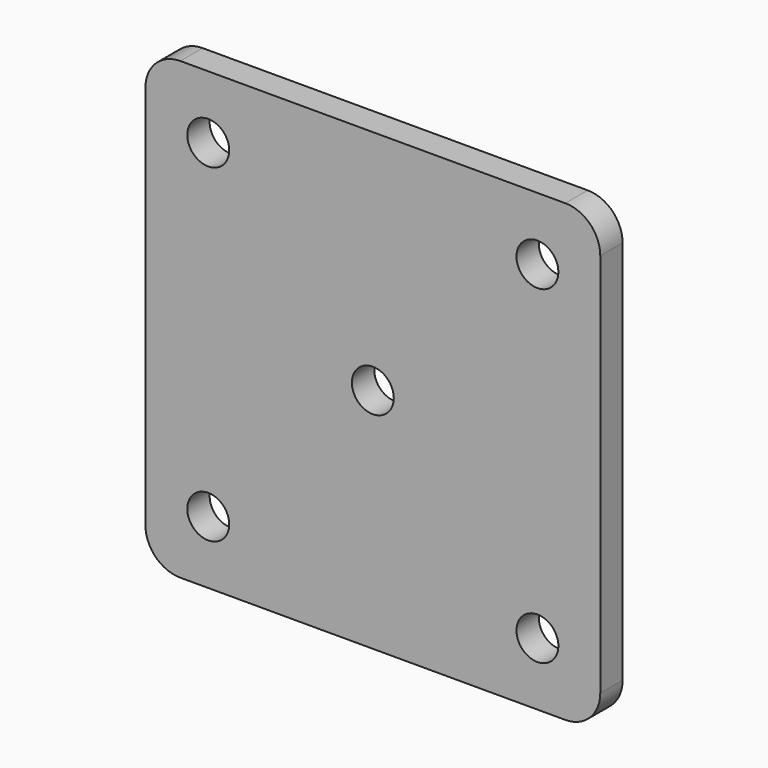
from build123d import *

# Parameters (mm, degrees)
F0_W     = 65.14
F0_H     = 65.14
F0_R     = 3
F1_DEPTH = 4
F2_R     = 5


with BuildPart() as f1:
    # F0 (on Front) → F1 (new body)
    with BuildSketch(Plane.XZ):
        Rectangle(F0_W, F0_H)
        with Locations((-23.57, -23.57)):
            Circle(F0_R, mode=Mode.SUBTRACT)
        with Locations((23.57, -23.57)):
            Circle(F0_R, mode=Mode.SUBTRACT)
        with Locations((-23.57, 23.57)):
            Circle(F0_R, mode=Mode.SUBTRACT)
        Circle(F0_R, mode=Mode.SUBTRACT)
        with Locations((23.57, 23.57)):
            Circle(F0_R, mode=Mode.SUBTRACT)
    extrude(amount=F1_DEPTH)

    # F2
    f2_edges = [f1.edges().sort_by_distance(p)[0] for p in [
        (32.57, -2, -32.57),
        (-32.57, -2, -32.57),
        (-32.57, -2, 32.57),
        (32.57, -2, 32.57),
    ]]
    fillet(f2_edges, radius=F2_R)


solid = f1.part
